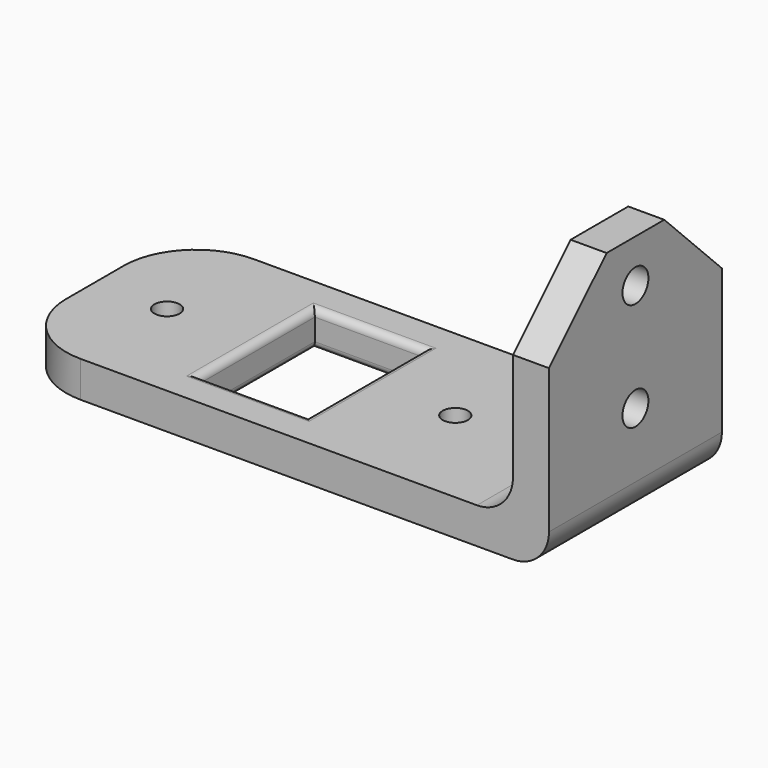
from build123d import *

# Parameters (mm, degrees)
SKETCH_W     = 75
SKETCH_H     = 30
SKETCH_R     = 1.75
SKETCH_W_2   = 15
SKETCH_H_2   = 20
PAD_DEPTH    = 5
FILLET_R     = 10
FILLET001_R  = 1
SKETCH001_W  = 5
SKETCH001_H  = 30
PAD001_DEPTH = 30
FILLET002_R  = 5
FILLET003_R  = 5
SKETCH002_R  = 2.25
POCKET_DEPTH = 75.001
CHAMFER_SIZE = 10


with BuildPart() as part:
    # Sketch → Pad (new body)
    with BuildSketch(Plane.XY):
        with Locations((27.5, 0)):
            Rectangle(SKETCH_W, SKETCH_H)
        Circle(SKETCH_R, mode=Mode.SUBTRACT)
        with Locations((40, 0)):
            Circle(SKETCH_R, mode=Mode.SUBTRACT)
        with Locations((20, 0)):
            Rectangle(SKETCH_W_2, SKETCH_H_2, mode=Mode.SUBTRACT)
    extrude(amount=PAD_DEPTH)

    # Fillet
    fillet_edges = [part.edges().sort_by_distance(p)[0] for p in [
        (-10, 15, 2.5),
        (-10, -15, 2.5),
    ]]
    fillet(fillet_edges, radius=FILLET_R)

    # Fillet001
    fillet001_edges = [part.edges().sort_by_distance(p)[0] for p in [
        (12.5, 0, 5),
        (12.5, 0, 0),
        (20, 10, 0),
        (20, 10, 5),
        (27.5, 0, 5),
        (20, -10, 5),
        (27.5, 0, 0),
        (20, -10, 0),
    ]]
    fillet(fillet001_edges, radius=FILLET001_R)

    # Sketch001 (on Face18 of Fillet001) → Pad001 (join)
    with BuildSketch(Plane.XY.offset(5)):
        with Locations((62.5, 0)):
            Rectangle(SKETCH001_W, SKETCH001_H)
    extrude(amount=PAD001_DEPTH)

    # Fillet002
    fillet002_edges = [part.edges().sort_by_distance(p)[0] for p in [
        (65, 0, 0),
    ]]
    fillet(fillet002_edges, radius=FILLET002_R)

    # Fillet003
    fillet003_edges = [part.edges().sort_by_distance(p)[0] for p in [
        (60, 0, 5),
    ]]
    fillet(fillet003_edges, radius=FILLET003_R)

    # Sketch002 (on Face9 of Fillet003) → Pocket (cut, through all)
    with BuildSketch(Plane.YZ.offset(65)):
        with Locations((0, 29)):
            Circle(SKETCH002_R)
        with Locations((0, 14)):
            Circle(SKETCH002_R)
    extrude(amount=-POCKET_DEPTH, mode=Mode.SUBTRACT)

    # Chamfer
    chamfer_edges = [part.edges().sort_by_distance(p)[0] for p in [
        (62.5, -15, 35),
        (62.5, 15, 35),
    ]]
    chamfer(chamfer_edges, length=CHAMFER_SIZE)


solid = part.part
